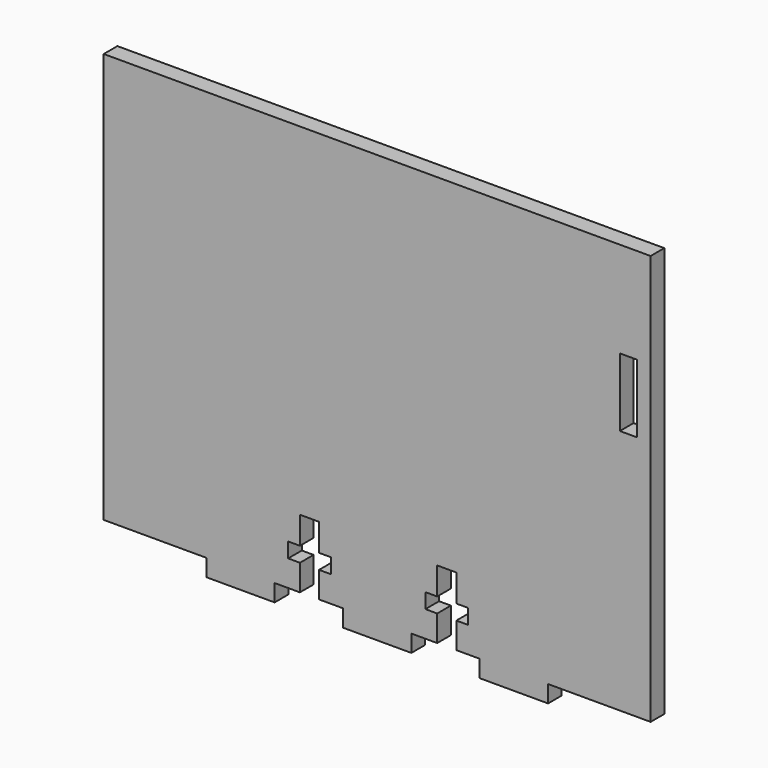
from build123d import *

# Parameters (mm, degrees)
F0_W     = 3.175
F0_H     = 12.7
F0_W_2   = 12.7
F0_H_2   = 3.175
F1_DEPTH = 3.175


with BuildPart() as f1:
    # F0 (on Front) → F1 (new body)
    with BuildSketch(Plane.XZ):
        Polygon((50.6222, 30.48), (-50.9778, 30.48), (-50.9778, -45.72), (-31.9278, -45.72), (-19.2278, -45.72), (-14.5288, -45.72), (-14.5288, -40.878125), (-16.71955, -40.878125), (-16.71955, -38.1), (-14.5288, -38.1), (-14.5288, -33.02), (-10.9728, -33.02), (-10.9728, -38.1), (-8.78205, -38.1), (-8.78205, -40.878125), (-10.9728, -40.878125), (-10.9728, -45.72), (-6.5278, -45.72), (6.1722, -45.72), (10.9728, -45.72), (10.9728, -40.878125), (8.78205, -40.878125), (8.78205, -38.1), (10.9728, -38.1), (10.9728, -33.02), (14.5288, -33.02), (14.5288, -38.1), (16.71955, -38.1), (16.71955, -40.878125), (14.5288, -40.878125), (14.5288, -45.72), (18.8722, -45.72), (31.5722, -45.72), (50.6222, -45.72), (50.6222, -27.178), (50.6222, -23.622), align=None)
        with Locations((46.4947, 6.35)):
            Rectangle(F0_W, F0_H, mode=Mode.SUBTRACT)
        with Locations((-25.5778, -47.3075)):
            Rectangle(F0_W_2, F0_H_2)
        with Locations((25.2222, -47.3075)):
            Rectangle(F0_W_2, F0_H_2)
        with Locations((-0.1778, -47.3075)):
            Rectangle(F0_W_2, F0_H_2)
    extrude(amount=F1_DEPTH)


solid = f1.part
